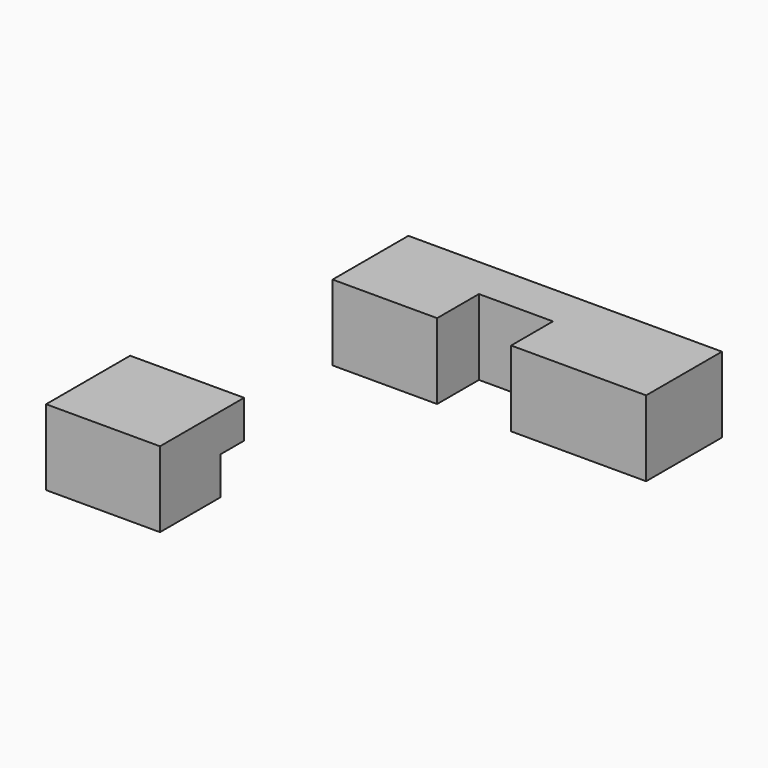
from build123d import *

# Parameters (mm, degrees)
F1_W     = 30.1317349076
F1_H     = 27.7914069593
F2_DEPTH = 20
F3_R     = 19.1557401368
F4_DEPTH = 10


with BuildPart() as f2:
    # F1 (on Top) → F2 (new body)
    with BuildSketch(Plane.XY):
        with Locations((-49.0006394684, -51.4872390777)):
            Rectangle(F1_W, F1_H)
    extrude(amount=F2_DEPTH)

    # F3 (on Top) → F4 (cut)
    with BuildSketch(Plane.XY):
        with Locations((-42.0383922756, -28.0735846609)):
            Circle(F3_R)
    extrude(amount=F4_DEPTH, mode=Mode.SUBTRACT)


with BuildPart() as f2b:
    # F1 (on Top) → F2, piece 2 (new body)
    with BuildSketch(Plane.XY):
        Polygon((30.2330944687, 40.1668176055), (-52.6919588447, 40.1668176055), (-52.6919588447, 15.1165444404), (-25.0502731651, 15.1165444404), (-25.0502731651, 28.9373882115), (-5.4707499221, 28.9373882115), (-5.4707499221, 15.1165444404), (30.2330944687, 15.1165444404), align=None)
    extrude(amount=F2_DEPTH)


solid = Compound([f2.part, f2b.part])
